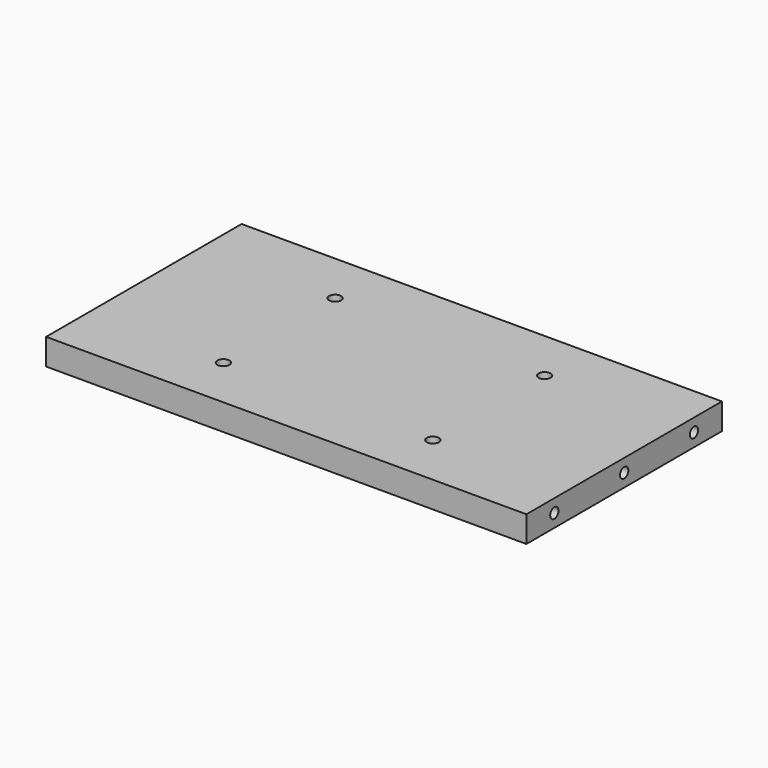
from build123d import *

# Parameters (mm, degrees)
F0_W     = 349.504
F0_H     = 177.8
F1_DEPTH = 19.05
F2_R     = 3.770313
F3_DEPTH = 19.05
F4_R     = 3.770313
F5_DEPTH = 25.4
F6_R     = 4.365625
F7_DEPTH = 25.4
F8_R     = 3.770313
F9_DEPTH = 25.4


with BuildPart() as f1:
    # F0 (on Top) → F1 (new body)
    with BuildSketch(Plane.XY):
        with Locations((174.752, 88.9)):
            Rectangle(F0_W, F0_H)
    extrude(amount=F1_DEPTH)

    # F2 (on face) → F3 (cut)
    with BuildSketch(Plane.YZ.offset(349.504)):
        with Locations((88.9, 9.525)):
            Circle(F2_R)
        with Locations((25.4, 9.525)):
            Circle(F2_R)
        with Locations((152.4, 9.525)):
            Circle(F2_R)
    extrude(amount=-F3_DEPTH, mode=Mode.SUBTRACT)

    # F4 (on face) → F5 (cut)
    with BuildSketch(Plane(origin=(0, 0, 0), x_dir=(0, -1, 0), z_dir=(-1, 0, 0))):
        with Locations((-88.9, 9.525)):
            Circle(F4_R)
        with Locations((-25.4, 9.525)):
            Circle(F4_R)
        with Locations((-152.4, 9.525)):
            Circle(F4_R)
    extrude(amount=-F5_DEPTH, mode=Mode.SUBTRACT)

    # F6 (on face) → F7 (cut)
    with BuildSketch(Plane.XY.offset(19.05)):
        with Locations((98.552, 139.7)):
            Circle(F6_R)
        with Locations((98.552, 38.1)):
            Circle(F6_R)
        with Locations((250.952, 139.7)):
            Circle(F6_R)
        with Locations((250.952, 38.1)):
            Circle(F6_R)
    extrude(amount=-F7_DEPTH, mode=Mode.SUBTRACT)

    # F8 (on face) → F9 (cut)
    with BuildSketch(Plane(origin=(0, 177.8, 0), x_dir=(-1, 0, 0), z_dir=(0, 1, 0))):
        with Locations((-21.844, 9.525)):
            Circle(F8_R)
        with Locations((-65.532, 9.525)):
            Circle(F8_R)
        with Locations((-109.22, 9.525)):
            Circle(F8_R)
        with Locations((-152.908, 9.525)):
            Circle(F8_R)
        with Locations((-196.596, 9.525)):
            Circle(F8_R)
        with Locations((-240.284, 9.525)):
            Circle(F8_R)
        with Locations((-283.972, 9.525)):
            Circle(F8_R)
        with Locations((-327.66, 9.525)):
            Circle(F8_R)
    extrude(amount=-F9_DEPTH, mode=Mode.SUBTRACT)


solid = f1.part
